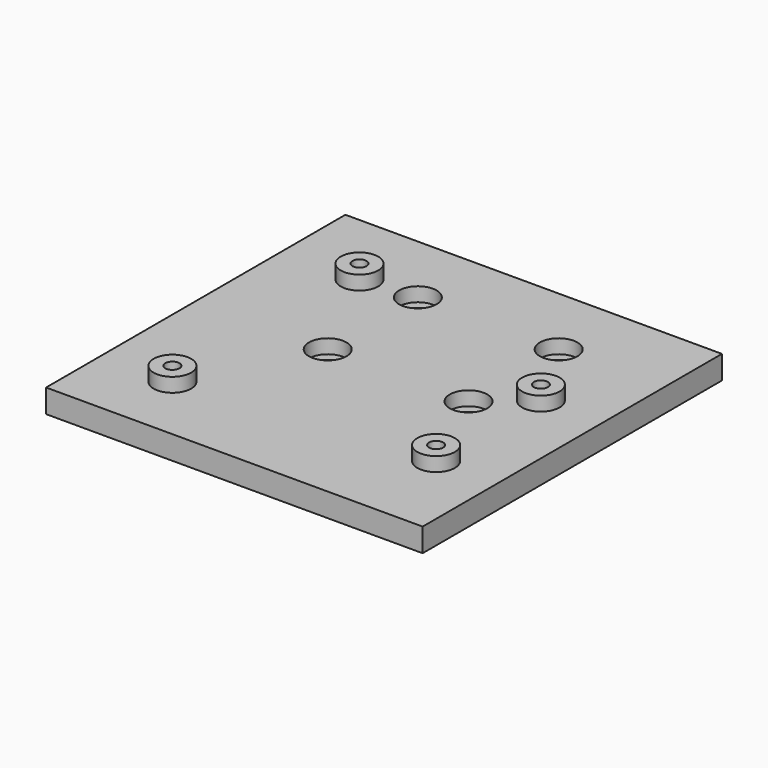
from build123d import *

# Parameters (mm, degrees)
F0_W          = 70
F0_H          = 60
F1_DEPTH      = 5
F2_R          = 4
F3_DEPTH      = 3
F4_R          = 1.5
F5_DEPTH      = 3.001
F5_DEPTH_BACK = 5
F6_DEPTH      = 9.85
F7_DEPTH      = 9.85
F8_DEPTH      = 5.11
F9_DEPTH      = 5.11
F10_R         = 2
F11_DEPTH     = 5
F12_R         = 4
F13_DEPTH     = 3
F15_DEPTH     = 2.5


with BuildPart() as f1:
    # F0 (on Top) → F1 (new body)
    with BuildSketch(Plane.XY):
        Rectangle(F0_W, F0_H)
    extrude(amount=F1_DEPTH)

    # F2 (on face) → F3 (join)
    with BuildSketch(Plane.XY.offset(5)):
        with Locations((-23.7, 23.1)):
            Circle(F2_R)
        with Locations((-25, -25.1)):
            Circle(F2_R)
        with Locations((27.1, 7.9)):
            Circle(F2_R)
        with Locations((27.1, -20)):
            Circle(F2_R)
    extrude(amount=F3_DEPTH)

    # F4 (on face) → F5 (cut, two sides)
    with BuildSketch(Plane.XY.offset(5)) as f5_sk:
        with Locations((-23.7, 23.1)):
            Circle(F4_R)
        with Locations((27.1, 7.9)):
            Circle(F4_R)
        with Locations((27.1, -20)):
            Circle(F4_R)
        with Locations((-25, -25.1)):
            Circle(F4_R)
    extrude(amount=F5_DEPTH, mode=Mode.SUBTRACT)
    extrude(f5_sk.sketch, amount=-F5_DEPTH_BACK, mode=Mode.SUBTRACT)

    # F6 (add): a face of the model
    f6_faces = [f1.faces().sort_by_distance(p)[0] for p in [
        (0, -30, 2.5),
    ]]
    extrude(f6_faces, amount=F6_DEPTH)

    # F7 (add): a face of the model
    f7_faces = [f1.faces().sort_by_distance(p)[0] for p in [
        (0, 30, 2.5),
    ]]
    extrude(f7_faces, amount=F7_DEPTH)

    # F8 (add): a face of the model
    f8_faces = [f1.faces().sort_by_distance(p)[0] for p in [
        (35, 0, 2.5),
    ]]
    extrude(f8_faces, amount=F8_DEPTH)

    # F9 (add): a face of the model
    f9_faces = [f1.faces().sort_by_distance(p)[0] for p in [
        (-35, 0, 2.5),
    ]]
    extrude(f9_faces, amount=F9_DEPTH)

    # F10 (on face) → F11 (cut)
    with BuildSketch(Plane.XY.offset(5)):
        with Locations((-12.11, 0.15)):
            Circle(F10_R)
        with Locations((-12.11, 24.15)):
            Circle(F10_R)
        with Locations((17.89, 24.15)):
            Circle(F10_R)
        with Locations((17.89, 0.15)):
            Circle(F10_R)
    extrude(amount=-F11_DEPTH, mode=Mode.SUBTRACT)

    # F12 (on face) → F13 (cut)
    with BuildSketch(Plane.XY.offset(5)):
        with Locations((-12.11, 0.15)):
            Circle(F12_R)
        with Locations((-12.11, 24.15)):
            Circle(F12_R)
        with Locations((17.89, 24.15)):
            Circle(F12_R)
        with Locations((17.89, 0.15)):
            Circle(F12_R)
    extrude(amount=-F13_DEPTH, mode=Mode.SUBTRACT)

    # F14 (on face) → F15 (cut)
    with BuildSketch(Plane(origin=(0, 0, 0), x_dir=(1, 0, 0), z_dir=(0, 0, -1))):
        Polygon((-24.6492034201, 28.2559903506), (-27.5577695278, 26.981793925), (-27.9085661076, 23.8258035744), (-25.3507965799, 21.9440096494), (-22.4422304722, 23.218206075), (-22.0914338924, 26.3741964256), align=None)
        Polygon((27.1832127793, 23.1743359883), (24.3925507836, 21.659232375), (24.3093380043, 18.4848963867), (27.0167872207, 16.8256640117), (29.8074492164, 18.340767625), (29.8906619957, 21.5151036133), align=None)
        Polygon((27.1178128759, -4.7246234814), (24.3589497063, -6.2968853377), (24.3411368304, -9.4722618563), (27.0821871241, -11.0753765186), (29.8410502937, -9.5031146623), (29.8588631696, -6.3277381437), align=None)
        Polygon((-23.1561984645, -19.9714838624), (-26.1374736836, -21.0647959868), (-26.6812752191, -24.1933121244), (-24.2438015355, -26.2285161376), (-21.2625263164, -25.1352040132), (-20.7187247809, -22.0066878756), align=None)
    extrude(amount=-F15_DEPTH, mode=Mode.SUBTRACT)


solid = f1.part
